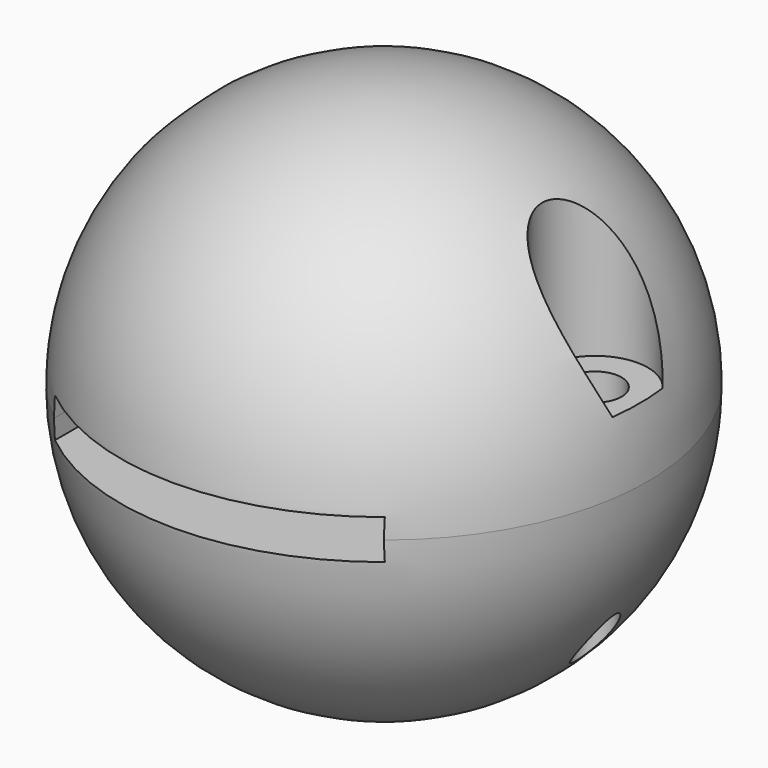
from build123d import *

# Parameters (mm, degrees)
F2_W      = 25
F2_H      = 3
F3_DEPTH  = 25
F4_R      = 2
F5_DEPTH  = 20.001
F7_R      = 4
F8_DEPTH  = 15.001
F11_W     = 25
F11_H     = 3
F12_DEPTH = 25
F13_R     = 1.5
F14_DEPTH = 20.001


with BuildPart() as f1:
    # F0 (on Front) → F1 (revolve)
    with BuildSketch(Plane.XZ):
        with BuildLine():
            Line((0, 0), (0, 20))
            ThreePointArc((0, 20), (-14.1421356237, 14.1421356237), (-20, 0))
            Line((-20, 0), (0, 0))
        make_face()
    revolve(axis=Axis((0, 0, 10), (0, 0, 1)))

    # F2 (on Front) → F3 (cut, symmetric)
    with BuildSketch(Plane.XZ):
        Rectangle(F2_W, F2_H)
    extrude(amount=F3_DEPTH, both=True, mode=Mode.SUBTRACT)

    # F4 (on face) → F5 (cut, through all)
    with BuildSketch(Plane(origin=(0, 0, 0), x_dir=(1, 0, 0), z_dir=(0, 0, -1))):
        with Locations((-16, 0)):
            Circle(F4_R)
        with Locations((16, 0)):
            Circle(F4_R)
    extrude(amount=-F5_DEPTH, mode=Mode.SUBTRACT)

    # F7 (on offset) → F8 (cut, through all)
    with BuildSketch(Plane(origin=(0, 0, 5), x_dir=(1, 0, 0), z_dir=(0, 0, -1))):
        with Locations((-16, 0)):
            Circle(F7_R)
        with Locations((16, 0)):
            Circle(F7_R)
    extrude(amount=-F8_DEPTH, mode=Mode.SUBTRACT)


with BuildPart() as f10:
    # F9 (on Front) → F10 (revolve)
    with BuildSketch(Plane.XZ):
        with BuildLine():
            Line((0, 0), (-20, 0))
            ThreePointArc((-20, 0), (-14.1421356237, -14.1421356237), (0, -20))
            Line((0, -20), (0, 0))
        make_face()
    revolve(axis=Axis((0, 0, -10), (0, 0, -1)))

    # F11 (on Front) → F12 (cut, symmetric)
    with BuildSketch(Plane.XZ):
        Rectangle(F11_W, F11_H)
    extrude(amount=F12_DEPTH, both=True, mode=Mode.SUBTRACT)

    # F13 (on Top) → F14 (cut, through all)
    with BuildSketch(Plane.XY):
        with Locations((-16, 0)):
            Circle(F13_R)
        with Locations((16, 0)):
            Circle(F13_R)
    extrude(amount=-F14_DEPTH, mode=Mode.SUBTRACT)


solid = Compound([f1.part, f10.part])
